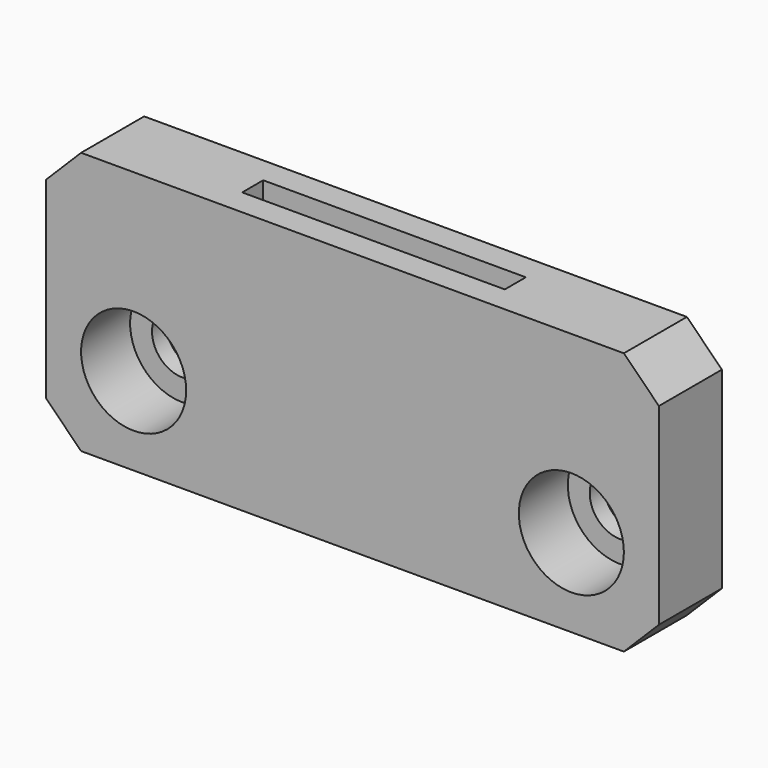
from build123d import *

# Parameters (mm, degrees)
F0_W     = 35
F0_H     = 15
F1_DEPTH = 4.5
F2_W     = 15
F2_H     = 1.5
F3_DEPTH = 15.001
F4_R     = 3
F5_DEPTH = 3.5
F6_R     = 1.75
F7_DEPTH = 4.501
F8_SIZE  = 2


with BuildPart() as f1:
    # F0 (on Front) → F1 (new body)
    with BuildSketch(Plane.XZ):
        Rectangle(F0_W, F0_H)
    extrude(amount=F1_DEPTH)

    # F2 (on face) → F3 (cut, through all)
    with BuildSketch(Plane.XY.offset(7.5)):
        with Locations((0, -2.25)):
            Rectangle(F2_W, F2_H)
    extrude(amount=-F3_DEPTH, mode=Mode.SUBTRACT)

    # F4 (on face) → F5 (cut)
    with BuildSketch(Plane.XZ.offset(4.5)):
        with Locations((12.5, -2.5)):
            Circle(F4_R)
        with Locations((-12.5, -2.5)):
            Circle(F4_R)
    extrude(amount=-F5_DEPTH, mode=Mode.SUBTRACT)

    # F6 (on face) → F7 (cut, through all)
    with BuildSketch(Plane.XZ.offset(4.5)):
        with Locations((12.5, -2.5)):
            Circle(F6_R)
        with Locations((-12.5, -2.5)):
            Circle(F6_R)
    extrude(amount=-F7_DEPTH, mode=Mode.SUBTRACT)

    # F8
    f8_edges = [f1.edges().sort_by_distance(p)[0] for p in [
        (-17.5, -2.25, 7.5),
        (17.5, -2.25, 7.5),
        (17.5, -2.25, -7.5),
        (-17.5, -2.25, -7.5),
    ]]
    chamfer(f8_edges, length=F8_SIZE)


solid = f1.part
